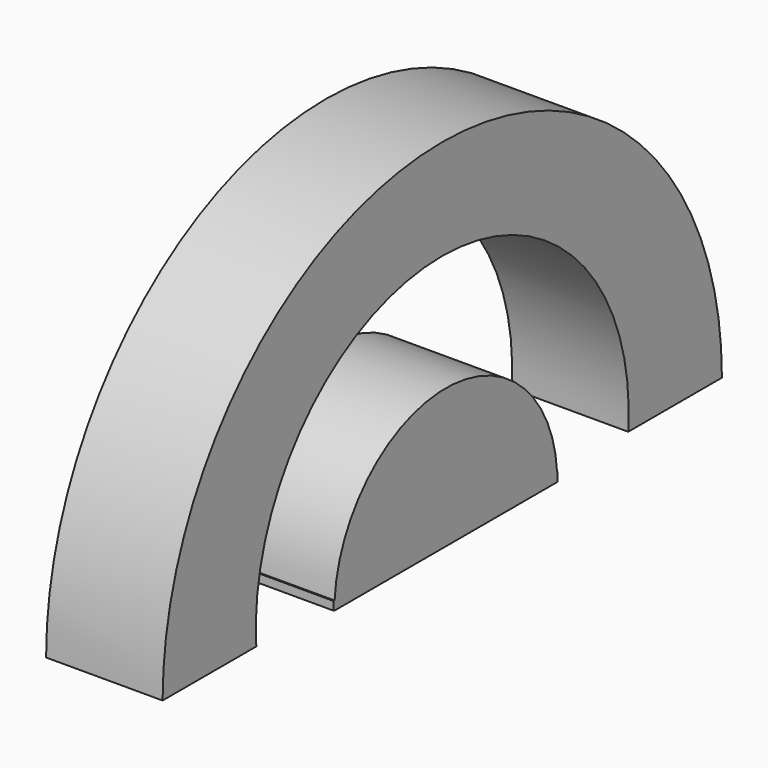
from build123d import *

# Parameters (mm, degrees)
F1_DEPTH = 5
F3_D     = 20
F5_DEPTH = 5
F7_DEPTH = 5


with BuildPart() as f1:
    # F0 (on Right) → F1 (new body)
    with BuildSketch(Plane.YZ):
        with BuildLine():
            Line((-26.1599914792, 22.3283730447), (-18.957734704, 22.3283730447))
            ThreePointArc((-18.957734704, 22.3283730447), (-33.957734704, 37.3283730447), (-48.957734704, 22.3283730447))
            Line((-48.957734704, 22.3283730447), (-41.7554779289, 22.3283730447))
            ThreePointArc((-41.7554779289, 22.3283730447), (-41.4137994616, 24.6113311545), (-40.4187071272, 26.6942217305))
            ThreePointArc((-40.4187071272, 26.6942217305), (-37.6156734945, 29.2149021564), (-33.957734704, 30.1261162696))
            ThreePointArc((-33.957734704, 30.1261162696), (-30.6212184127, 29.3762421155), (-27.9264178741, 27.2708437525))
            ThreePointArc((-27.9264178741, 27.2708437525), (-26.614865396, 24.9526957624), (-26.1599914792, 22.3283730447))
        make_face()
        with BuildLine():
            Line((-33.957734704, 22.3283730447), (-26.1599914792, 22.3283730447))
            ThreePointArc((-26.1599914792, 22.3283730447), (-26.614865396, 24.9526957624), (-27.9264178741, 27.2708437525))
            Line((-27.9264178741, 27.2708437525), (-33.957734704, 22.3283730447))
        make_face()
        with BuildLine():
            Line((-33.957734704, 30.1261162696), (-33.957734704, 22.3283730447))
            Line((-33.957734704, 22.3283730447), (-27.9264178741, 27.2708437525))
            ThreePointArc((-27.9264178741, 27.2708437525), (-30.6212184127, 29.3762421155), (-33.957734704, 30.1261162696))
        make_face()
        with BuildLine():
            Line((-40.4187071272, 26.6942217305), (-33.957734704, 22.3283730447))
            Line((-33.957734704, 22.3283730447), (-33.957734704, 30.1261162696))
            ThreePointArc((-33.957734704, 30.1261162696), (-37.6156734945, 29.2149021564), (-40.4187071272, 26.6942217305))
        make_face()
        with BuildLine():
            ThreePointArc((-40.4187071272, 26.6942217305), (-41.4137994616, 24.6113311545), (-41.7554779289, 22.3283730447))
            Line((-41.7554779289, 22.3283730447), (-33.957734704, 22.3283730447))
            Line((-33.957734704, 22.3283730447), (-40.4187071272, 26.6942217305))
        make_face()
    extrude(amount=F1_DEPTH)

    # F3 (through all)
    with Locations(Plane(origin=(0, 0, 0), x_dir=(0, 1, 0), z_dir=(-1, 0, 0))):
        with Locations((-33.9577498666, -23.0261329564)):
            Hole(F3_D / 2)


with BuildPart() as f5:
    # F4 (on Right) → F5 (new body)
    with BuildSketch(Plane.YZ):
        with BuildLine():
            Line((-39.74583946, 21.9767466187), (-27.786871271, 21.9767466187))
            ThreePointArc((-27.786871271, 21.9767466187), (-33.7663553655, 27.9562307132), (-39.74583946, 21.9767466187))
        make_face()
    extrude(amount=F5_DEPTH)

    # F6 (on Right) → F7 (join)
    with BuildSketch(Plane.YZ):
        Polygon((-27.7784001082, 21.9946540892), (-27.7656540275, 22.359451279), (-39.7858694196, 22.359451279), (-39.7858694196, 21.9946540892), align=None)
    extrude(amount=F7_DEPTH)


solid = Compound([f1.part, f5.part])
